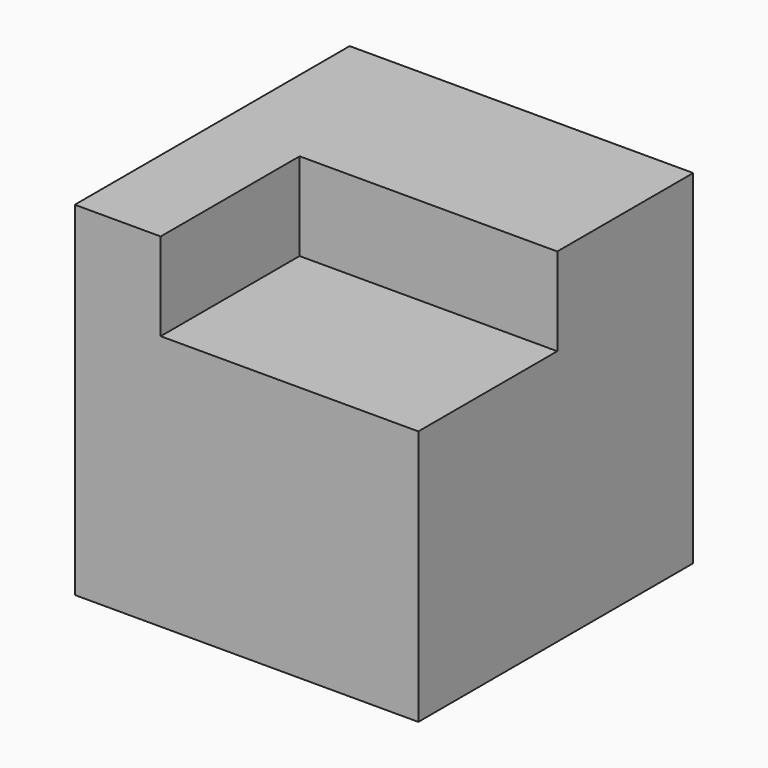
from build123d import *

# Parameters (mm, degrees)
F0_W     = 50.8
F0_H     = 50.8
F1_DEPTH = 50.8
F3_DEPTH = 38.1
F4_W     = 12.973598972
F4_H     = 12.9839326696
F5_DEPTH = 38.1
F6_DEPTH = 12.7
F7_DEPTH = 12.7


with BuildPart() as f1:
    # F0 (on Front) → F1 (new body)
    with BuildSketch(Plane.XZ):
        with Locations((-18.5270585775, 7.0019777209)):
            Rectangle(F0_W, F0_H)
    extrude(amount=F1_DEPTH)

    # F2 (on face) → F3 (cut)
    with BuildSketch(Plane.XZ.offset(50.8)):
        Polygon((6.8729414225, 32.4019777209), (6.8729414225, 17.4989413492), (25.4, 17.4989413492), (25.4, 42.8989413492), (0, 42.8989413492), (0, 32.4019777209), align=None)
    extrude(amount=-F3_DEPTH, mode=Mode.SUBTRACT)

    # F4 (on face) → F5 (cut)
    with BuildSketch(Plane.YZ.offset(6.8729414225)):
        with Locations((-44.313200514, 25.910011386)):
            Rectangle(F4_W, F4_H)
    extrude(amount=-F5_DEPTH, mode=Mode.SUBTRACT)

    # F6 (add): a face of the model
    f6_faces = [f1.faces().sort_by_distance(p)[0] for p in [
        (-12.1770585775, -37.826401028, 25.910011386),
    ]]
    extrude(f6_faces, amount=-F6_DEPTH)

    # F7 (cut): a face of the model
    f7_faces = [f1.faces().sort_by_distance(p)[0] for p in [
        (-12.1770585775, -37.826401028, 25.910011386),
    ]]
    extrude(f7_faces, amount=-F7_DEPTH, mode=Mode.SUBTRACT)


solid = f1.part
